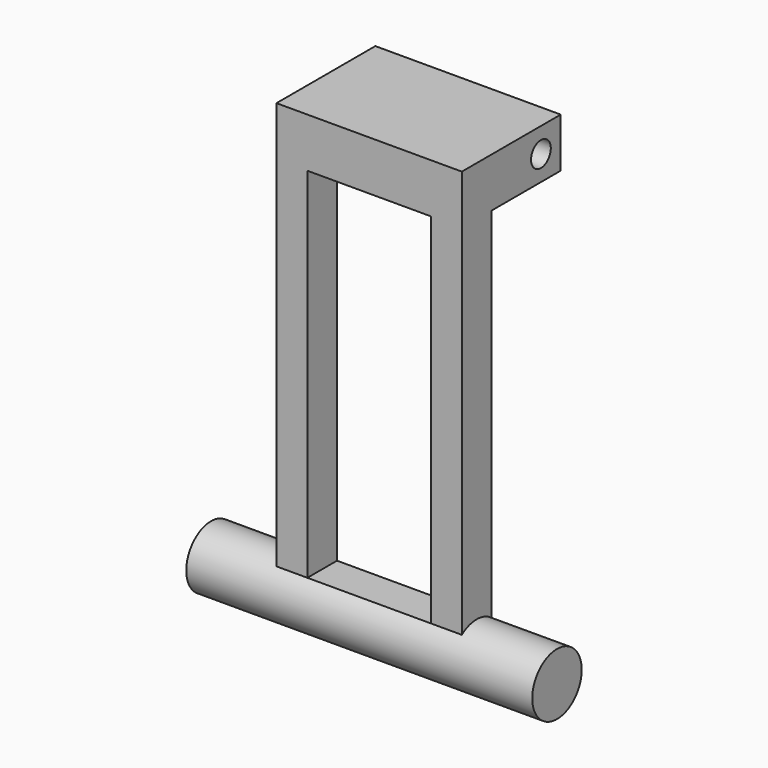
from build123d import *

# Parameters (mm, degrees)
F0_R      = 12.5
F1_DEPTH  = 70
F2_W      = 75
F2_H      = 15
F3_DEPTH  = 175
F4_W      = 25
F4_H      = 145
F5_DEPTH  = 500
F6_W      = 75
F6_H      = 20
F7_DEPTH  = 50
F8_R      = 5
F9_DEPTH  = 20
F10_R     = 5
F11_DEPTH = 20


with BuildPart() as f1:
    # F0 (on Right) → F1 (new body, symmetric)
    with BuildSketch(Plane.YZ):
        Circle(F0_R)
    extrude(amount=F1_DEPTH, both=True)

    # F2 (on Top) → F3 (join)
    with BuildSketch(Plane.XY):
        Rectangle(F2_W, F2_H)
    extrude(amount=F3_DEPTH)

    # F4 (on face) → F5 (cut)
    with BuildSketch(Plane.XZ.offset(7.5)):
        with Locations((-12.5, 82.5)):
            Rectangle(F4_W, F4_H)
        with Locations((12.5, 82.5)):
            Rectangle(F4_W, F4_H)
    extrude(amount=-F5_DEPTH, mode=Mode.SUBTRACT)

    # F6 (on face) → F7 (join)
    with BuildSketch(Plane.XZ.offset(7.5)):
        with Locations((0, 165)):
            Rectangle(F6_W, F6_H)
    extrude(amount=-F7_DEPTH)

    # F8 (on face) → F9 (cut)
    with BuildSketch(Plane(origin=(-37.5, 0, 0), x_dir=(0, -1, 0), z_dir=(-1, 0, 0))):
        with Locations((-32.5, 165)):
            Circle(F8_R)
    extrude(amount=-F9_DEPTH, mode=Mode.SUBTRACT)

    # F10 (on face) → F11 (cut)
    with BuildSketch(Plane.YZ.offset(37.5)):
        with Locations((32.5, 165)):
            Circle(F10_R)
    extrude(amount=-F11_DEPTH, mode=Mode.SUBTRACT)


solid = f1.part
